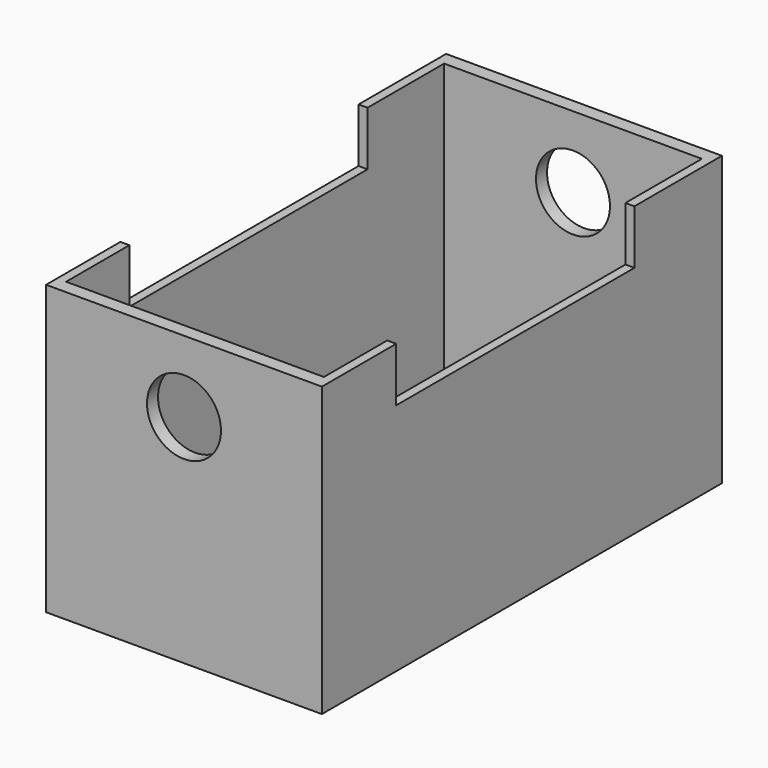
from build123d import *

# Parameters (mm, degrees)
F0_W     = 106.479474
F0_H     = 111.292108
F1_DEPTH = 96.52
F2_W     = 99.53875
F2_H     = 182.38613
F3_DEPTH = 181.356
F4_W     = 114.944555
F4_H     = 20.924191
F5_DEPTH = 135.128
F6_R     = 14.283712
F7_DEPTH = 257.302


with BuildPart() as f1:
    # F0 (on Front) → F1 (new body, symmetric)
    with BuildSketch(Plane.XZ):
        Rectangle(F0_W, F0_H)
    extrude(amount=F1_DEPTH, both=True)

    # F2 (on face) → F3 (cut)
    with BuildSketch(Plane.XY.offset(55.646054)):
        Rectangle(F2_W, F2_H)
    extrude(amount=-F3_DEPTH, mode=Mode.SUBTRACT)

    # F4 (on face) → F5 (cut)
    with BuildSketch(Plane.YZ.offset(53.239737)):
        with Locations((-3.193539, 45.183959)):
            Rectangle(F4_W, F4_H)
    extrude(amount=-F5_DEPTH, mode=Mode.SUBTRACT)

    # F6 (on face) → F7 (cut)
    with BuildSketch(Plane.XZ.offset(96.52)):
        with Locations((0, 28.012339)):
            Circle(F6_R)
    extrude(amount=-F7_DEPTH, mode=Mode.SUBTRACT)


solid = f1.part
